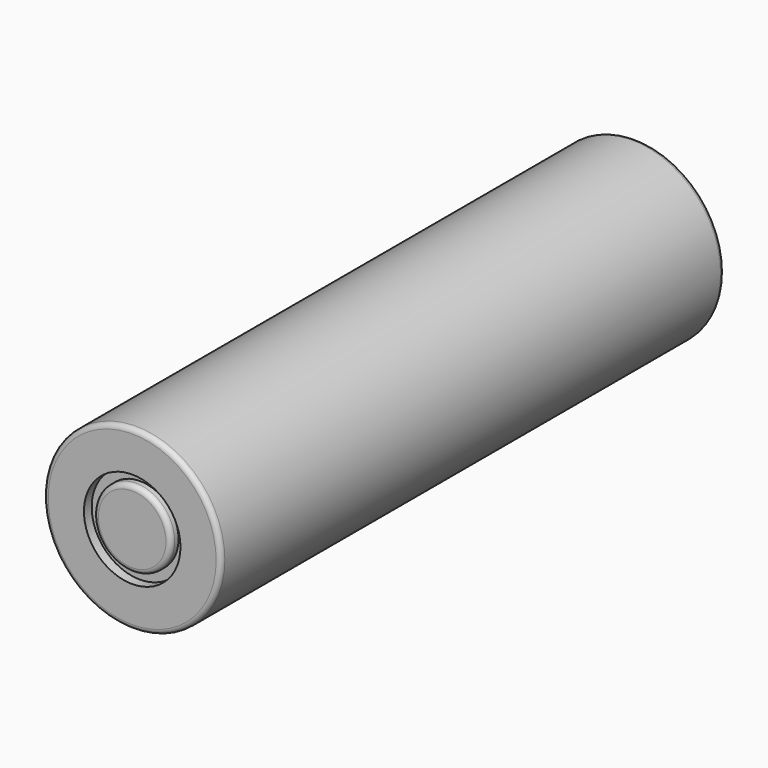
from build123d import *

# Parameters (mm, degrees)
SKETCH094_R     = 9.2
PAD034_DEPTH    = 65.2
SKETCH095_R     = 5
POCKET050_DEPTH = 1
SKETCH096_R     = 4
PAD035_DEPTH    = 1
SKETCH097_R     = 6.625
POCKET051_DEPTH = 0.15
FILLET_R        = 0.5


with BuildPart() as part:
    # Sketch094 → Pad034 (new body)
    with BuildSketch(Plane.XZ):
        Circle(SKETCH094_R)
    extrude(amount=PAD034_DEPTH)

    # Sketch095 (on Face3 of Pad034) → Pocket050 (cut)
    with BuildSketch(Plane.XZ.offset(65.2)):
        Circle(SKETCH095_R)
    extrude(amount=-POCKET050_DEPTH, mode=Mode.SUBTRACT)

    # Sketch096 (on Face5 of Pocket050) → Pad035 (join)
    with BuildSketch(Plane.XZ.offset(64.2)):
        Circle(SKETCH096_R)
    extrude(amount=PAD035_DEPTH)

    # Sketch097 (on Face2 of Pad035) → Pocket051 (cut)
    with BuildSketch(Plane(origin=(0, 0, 0), x_dir=(1, 0, 0), z_dir=(0, 1, 0))):
        Circle(SKETCH097_R)
    extrude(amount=-POCKET051_DEPTH, mode=Mode.SUBTRACT)

    # Fillet
    fillet_edges = [part.edges().sort_by_distance(p)[0] for p in [
        (-4, -65.2, 0),
        (-9.2, -65.2, 0),
        (-9.2, 0, 0),
    ]]
    fillet(fillet_edges, radius=FILLET_R)


with BuildPart() as part_1:
    # Body023 placement: moved
    add(part.part.moved(Location((-18.5, 0, 0))))


solid = part_1.part
